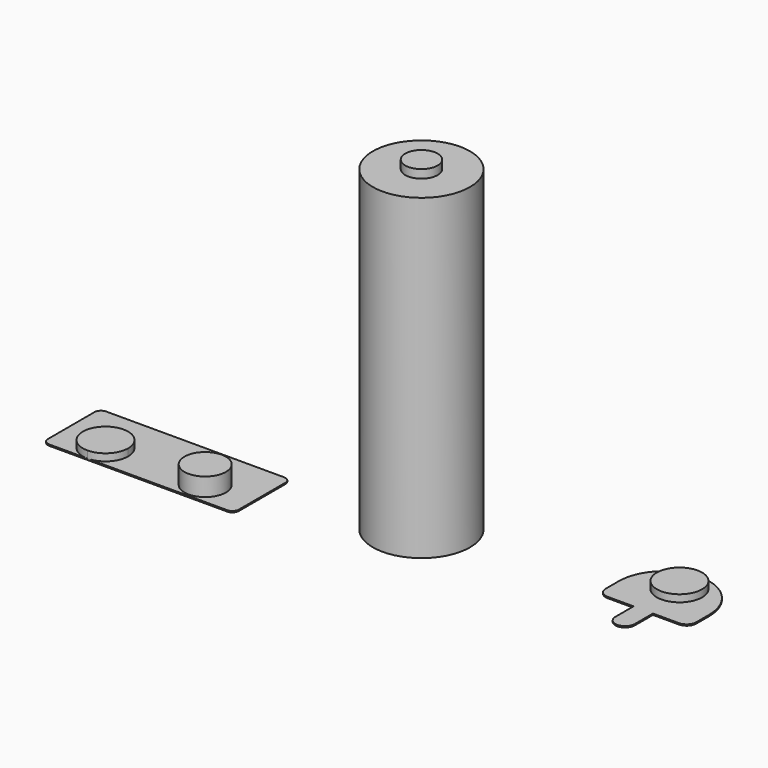
from build123d import *

# Parameters (mm, degrees)
F0_R     = 3.2
F1_DEPTH = 0.2
F2_DEPTH = 1.3
F3_DEPTH = 3
F0_R_2   = 7.5
F0_R_3   = 2.5
F4_DEPTH = 49
F5_DEPTH = 50.3
F0_R_4   = 3.5
F6_DEPTH = 0.2
F7_DEPTH = 1.3


with BuildPart() as f1:
    # F0 (on Top) → F1 (new body)
    with BuildSketch(Plane.XY):
        with BuildLine():
            Line((-21.204038, 0), (-48.704038, 0))
            ThreePointArc((-48.704038, 0), (-49.411145, -0.292893), (-49.704038, -1))
            Line((-49.704038, -1), (-49.704038, -10))
            ThreePointArc((-49.704038, -10), (-49.411145, -10.707107), (-48.704038, -11))
            Line((-48.704038, -11), (-42.804038, -11))
            Line((-42.804038, -11), (-21.204038, -11))
            ThreePointArc((-21.204038, -11), (-20.496931, -10.707107), (-20.204038, -10))
            Line((-20.204038, -10), (-20.204038, -1))
            ThreePointArc((-20.204038, -1), (-20.496931, -0.292893), (-21.204038, 0))
        make_face()
        with BuildLine():
            ThreePointArc((-39.304038, -7.5), (-40.329164, -9.974874), (-42.804038, -11))
            ThreePointArc((-42.804038, -11), (-45.278912, -5.025126), (-39.304038, -7.5))
        make_face(mode=Mode.SUBTRACT)
        with Locations((-27.404038, -7.5)):
            Circle(F0_R, mode=Mode.SUBTRACT)
        with BuildLine():
            ThreePointArc((-39.304038, -7.5), (-45.278912, -5.025126), (-42.804038, -11))
            ThreePointArc((-42.804038, -11), (-40.329164, -9.974874), (-39.304038, -7.5))
        make_face()
        with Locations((-27.404038, -7.5)):
            Circle(F0_R)
    extrude(amount=F1_DEPTH)

    # F0 (on Top) → F2 (join)
    with BuildSketch(Plane.XY):
        with BuildLine():
            ThreePointArc((-39.304038, -7.5), (-45.278912, -5.025126), (-42.804038, -11))
            ThreePointArc((-42.804038, -11), (-40.329164, -9.974874), (-39.304038, -7.5))
        make_face()
    extrude(amount=F2_DEPTH)

    # F0 (on Top) → F3 (join)
    with BuildSketch(Plane.XY):
        with Locations((-27.404038, -7.5)):
            Circle(F0_R)
    extrude(amount=F3_DEPTH)


with BuildPart() as f4:
    # F0 (on Top) → F4 (new body)
    with BuildSketch(Plane.XY):
        Circle(F0_R_2)
        Circle(F0_R_3, mode=Mode.SUBTRACT)
        Circle(F0_R_3)
    extrude(amount=F4_DEPTH)

    # F0 (on Top) → F5 (join)
    with BuildSketch(Plane.XY):
        Circle(F0_R_3)
    extrude(amount=F5_DEPTH)


with BuildPart() as f6:
    # F0 (on Top) → F6 (new body)
    with BuildSketch(Plane.XY):
        with BuildLine():
            Line((35.762385, 0), (32.762385, 0))
            Line((32.762385, 0), (32.762385, -3.5))
            ThreePointArc((32.762385, -3.5), (34.262385, -5), (35.762385, -3.5))
            Line((35.762385, -3.5), (35.762385, 0))
        make_face()
        with BuildLine():
            ThreePointArc((27.262385, 1.5), (27.701725, 0.43934), (28.762385, 0))
            Line((28.762385, 0), (32.762385, 0))
            Line((32.762385, 0), (35.762385, 0))
            Line((35.762385, 0), (39.762385, 0))
            ThreePointArc((39.762385, 0), (40.823045, 0.43934), (41.262385, 1.5))
            Line((41.262385, 1.5), (41.262385, 4))
            ThreePointArc((41.262385, 4), (34.262385, 11), (27.262385, 4))
            Line((27.262385, 4), (27.262385, 1.5))
        make_face()
        with Locations((34.262385, 7)):
            Circle(F0_R_4, mode=Mode.SUBTRACT)
        with Locations((34.262385, 7)):
            Circle(F0_R_4)
    extrude(amount=F6_DEPTH)

    # F0 (on Top) → F7 (join)
    with BuildSketch(Plane.XY):
        with Locations((34.262385, 7)):
            Circle(F0_R_4)
    extrude(amount=F7_DEPTH)


solid = Compound([f1.part, f4.part, f6.part])
